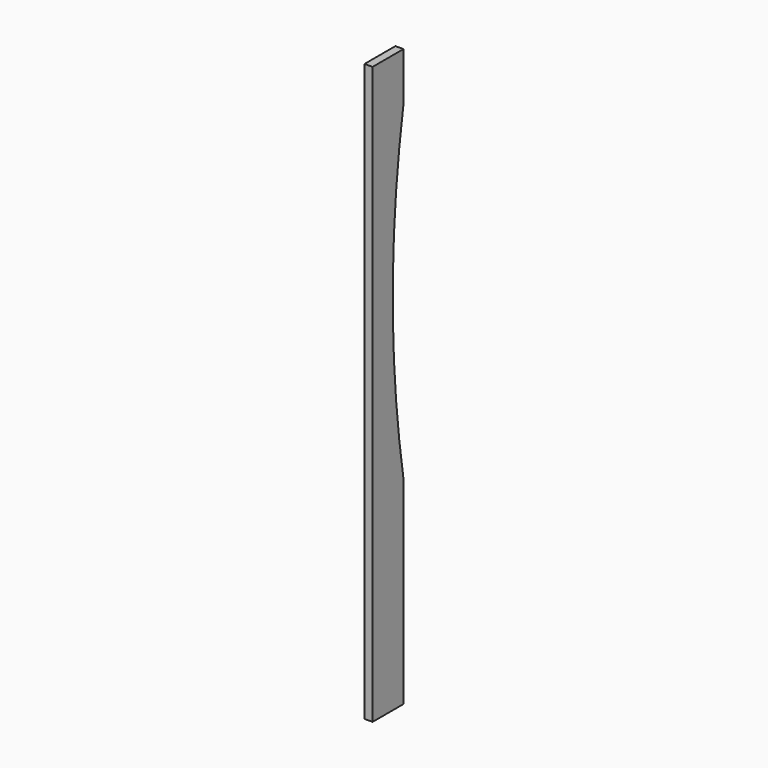
from build123d import *

# Parameters (mm, degrees)
F0_W     = 5.29509
F0_H     = 379.479259
F1_DEPTH = 25.4
F3_DEPTH = 25.4


with BuildPart() as f1:
    # F0 (on Front) → F1 (new body)
    with BuildSketch(Plane.XZ):
        with Locations((-44.488013, -76.816336)):
            Rectangle(F0_W, F0_H)
    extrude(amount=F1_DEPTH)

    # F2 (on face) → F3 (cut)
    with BuildSketch(Plane.YZ.offset(-41.840468)):
        with BuildLine():
            Line((0, -136.040717), (0, 80.957644))
            ThreePointArc((0, 80.957644), (-8.801852, -27.541537), (0, -136.040717))
        make_face()
    extrude(amount=-F3_DEPTH, mode=Mode.SUBTRACT)


solid = f1.part
